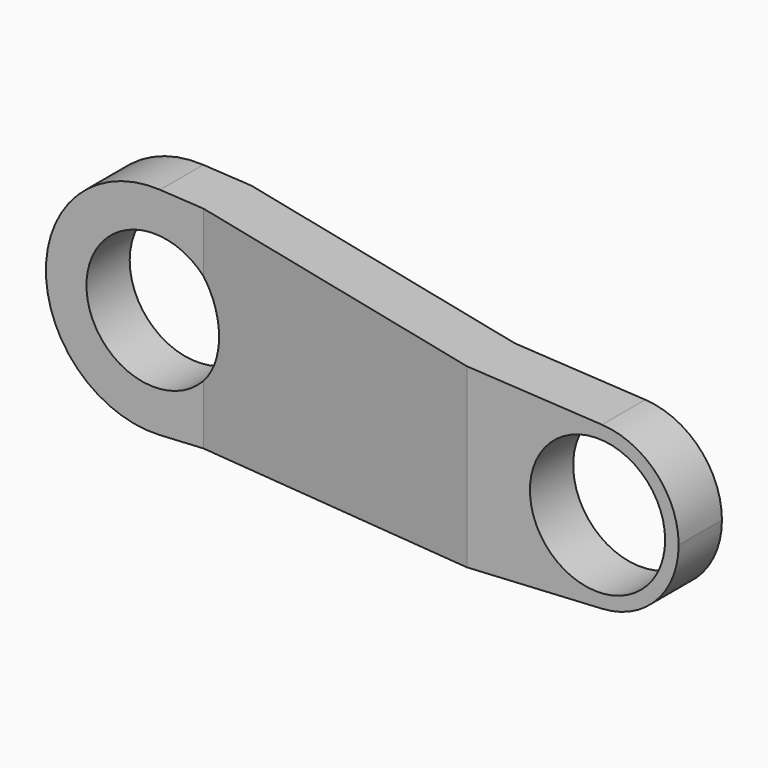
from build123d import *

# Parameters (mm, degrees)
F0_R     = 7.9375
F1_DEPTH = 19.05
F3_DEPTH = 12.7


with BuildPart() as f1:
    # F0 (on Front) → F1 (new body)
    with BuildSketch(Plane.XZ):
        with BuildLine():
            ThreePointArc((0.705556, -12.680386), (9.226336, -8.72724), (12.7, 0))
            ThreePointArc((12.7, 0), (9.226336, 8.72724), (0.705556, 12.680386))
            ThreePointArc((0.705556, 12.680386), (-12.7, 0), (0.705556, -12.680386))
        make_face()
        Circle(F0_R, mode=Mode.SUBTRACT)
        with BuildLine():
            ThreePointArc((0.705556, 12.680386), (9.226336, 8.72724), (12.7, 0))
            ThreePointArc((12.7, 0), (9.226336, -8.72724), (0.705556, -12.680386))
            Line((0.705556, -12.680386), (57.679167, -9.51029))
            ThreePointArc((57.679167, -9.51029), (47.625, 0), (57.679167, 9.51029))
            Line((57.679167, 9.51029), (0.705556, 12.680386))
        make_face()
        with BuildLine():
            ThreePointArc((66.675, 0), (64.069752, 6.54543), (57.679167, 9.51029))
            ThreePointArc((57.679167, 9.51029), (47.625, 0), (57.679167, -9.51029))
            ThreePointArc((57.679167, -9.51029), (64.069752, -6.54543), (66.675, 0))
        make_face()
        with Locations((57.15, 0)):
            Circle(F0_R, mode=Mode.SUBTRACT)
    extrude(amount=F1_DEPTH)

    # F2 (on Top) → F3 (intersect, symmetric)
    with BuildSketch(Plane.XY):
        Polygon((6.35, 0), (-12.7, 0), (-12.7, -6.35), (5.794447, -6.35), (41.807087, -12.7), (66.675, -12.7), (66.675, -6.35), (42.36264, -6.35), align=None)
    extrude(amount=F3_DEPTH, both=True, mode=Mode.INTERSECT)


solid = f1.part
